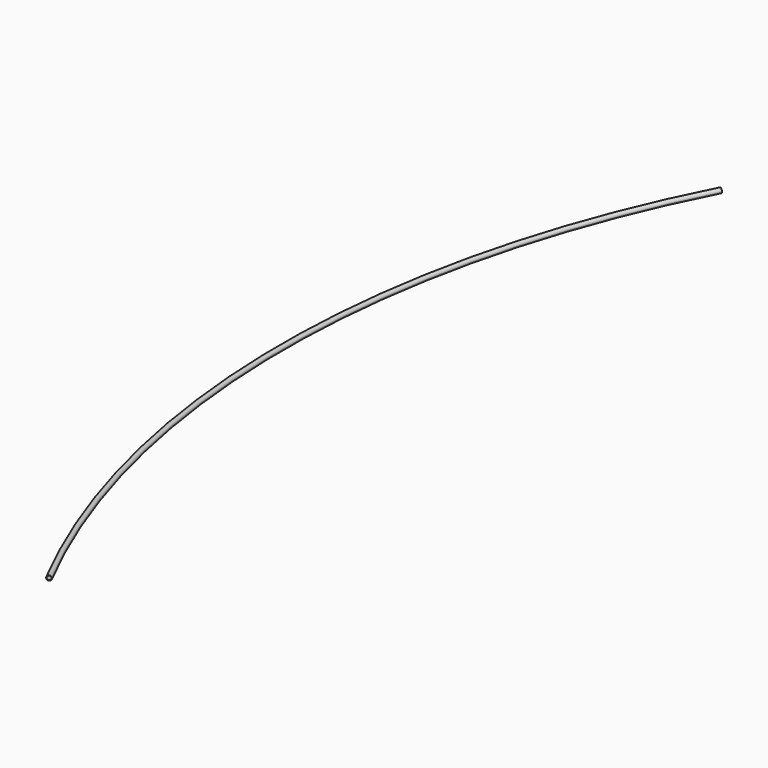
from build123d import *

# Parameters (mm, degrees)
F0_R          = 16.7
F0_R_2        = 13.932
F1_ANGLE_BACK = 27.26
F1_ANGLE      = 54.52


with BuildPart() as f1:
    # F0 (on Front) → F1 (revolve)
    with BuildSketch(Plane.XZ, mode=Mode.PRIVATE) as f1_sk:
        Circle(F0_R)
        Circle(F0_R_2, mode=Mode.SUBTRACT)
    revolve(f1_sk.sketch.rotate(Axis((6428, 0, -100), (0, 0, -1)), -F1_ANGLE_BACK), axis=Axis((6428, 0, -100), (0, 0, -1)), revolution_arc=F1_ANGLE)


solid = f1.part
